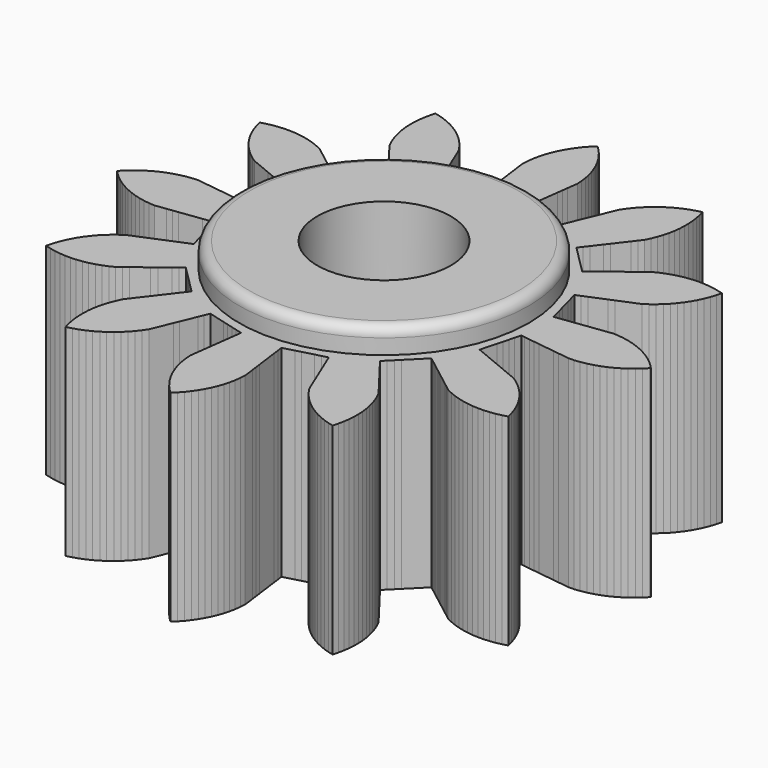
from build123d import *

# Parameters (mm, degrees)
F0_R     = 2.65
F1_DEPTH = 8
F2_R     = 5.75
F2_R_2   = 2.65
F3_DEPTH = 1
F4_R     = 0.4


with BuildPart() as f1:
    # F0 (on Top) → F1 (new body)
    with BuildSketch(Plane.XY):
        Polygon((4.749927, -0.826941), (4.756727, -0.801564), (4.900677, -0.820515), (5.116603, -0.848942), (5.332528, -0.877369), (5.548453, -0.905797), (5.764378, -0.934224), (5.980303, -0.962651), (6.196228, -0.991078), (6.412154, -1.019505), (6.628079, -1.047932), (6.844004, -1.076359), (7.069262, -1.074654), (7.292896, -1.047591), (7.528723, -1.005565), (7.746288, -0.94717), (7.952175, -0.879841), (8.160165, -0.793328), (8.355403, -0.699494), (8.550202, -0.586366), (8.731396, -0.467658), (8.909615, -0.329883), (9.073615, -0.188366), (9.232157, -0.028339), (9.260233, 0), (9.101691, 0.160028), (8.941176, 0.305484), (8.762956, 0.44326), (8.584698, 0.566332), (8.389899, 0.67946), (8.196997, 0.778007), (7.989007, 0.864521), (7.784816, 0.93683), (7.567251, 0.995224), (7.35532, 1.040037), (7.131963, 1.069297), (6.915979, 1.085835), (6.700054, 1.057408), (6.484129, 1.028981), (6.268203, 1.000554), (6.052278, 0.972126), (5.836353, 0.943699), (5.620428, 0.915272), (5.404503, 0.886845), (5.188578, 0.858418), (4.972652, 0.829991), (4.756727, 0.801564), (4.698424, 1.019153), (4.640121, 1.236742), (4.581819, 1.454332), (4.523516, 1.671921), (4.465213, 1.88951), (4.40691, 2.1071), (4.348607, 2.324689), (4.341807, 2.350066), (4.543017, 2.43341), (4.744228, 2.516754), (4.945438, 2.600098), (5.146648, 2.683442), (5.347858, 2.766786), (5.549069, 2.85013), (5.750279, 2.933474), (5.951489, 3.016818), (6.152699, 3.100162), (6.353909, 3.183506), (6.539692, 3.3109), (6.711491, 3.442839), (6.878896, 3.59357), (7.031841, 3.746967), (7.177958, 3.918414), (7.30939, 4.090602), (7.431678, 4.279784), (7.539311, 4.467768), (7.635643, 4.671396), (7.717606, 4.871908), (7.786308, 5.086441), (7.841175, 5.295994), (7.62386, 5.355311), (7.412122, 5.401023), (7.188891, 5.43123), (6.972979, 5.448684), (6.796204, 5.451467), (6.571223, 5.440154), (6.355779, 5.417649), (6.134243, 5.376832), (5.923632, 5.326175), (5.709393, 5.256563), (5.507279, 5.178635), (5.304062, 5.081439), (5.121035, 4.950117), (4.941762, 4.813715), (4.749725, 4.666484), (4.576942, 4.533903), (4.404159, 4.401322), (4.231376, 4.26874), (4.058593, 4.136159), (3.88581, 4.003578), (3.713026, 3.870997), (3.540243, 3.738416), (3.380957, 3.897702), (3.221671, 4.056989), (3.062384, 4.216275), (2.903098, 4.375561), (2.743811, 4.534848), (2.584525, 4.694134), (2.425238, 4.853421), (2.406661, 4.871998), (2.539242, 5.044781), (2.671823, 5.217565), (2.804404, 5.390348), (2.936985, 5.563131), (3.069567, 5.735914), (3.202148, 5.908697), (3.334729, 6.08148), (3.46731, 6.254263), (3.599891, 6.427047), (3.732472, 6.59983), (3.829668, 6.803047), (3.912481, 7.003209), (3.982092, 7.217449), (4.037848, 7.426767), (4.078666, 7.648303), (4.106395, 7.863138), (4.117708, 8.088118), (4.116929, 8.304734), (4.098542, 8.529247), (4.069268, 8.743877), (4.021499, 8.964019), (3.964239, 9.17293), (3.74638, 9.115643), (3.540153, 9.049361), (3.331726, 8.963906), (3.136013, 8.871066), (2.940642, 8.75893), (2.758847, 8.641145), (2.579929, 8.504277), (2.415212, 8.363596), (2.255859, 8.204377), (2.111084, 8.043246), (1.974066, 7.864444), (1.851751, 7.685664), (1.768407, 7.484454), (1.685063, 7.283244), (1.601719, 7.082034), (1.518375, 6.880824), (1.435031, 6.679613), (1.351687, 6.478403), (1.268343, 6.277193), (1.184999, 6.075983), (1.101655, 5.874772), (1.018311, 5.673562), (0.800722, 5.731865), (0.583133, 5.790168), (0.365544, 5.848471), (0.147954, 5.906774), (-0.069635, 5.965077), (-0.287224, 6.023379), (-0.504814, 6.081682), (-0.530191, 6.088482), (-0.501764, 6.304407), (-0.473337, 6.520333), (-0.44491, 6.736258), (-0.416483, 6.952183), (-0.388056, 7.168108), (-0.359629, 7.384033), (-0.331201, 7.599958), (-0.302774, 7.815884), (-0.274347, 8.031809), (-0.24592, 8.247734), (-0.263355, 8.472323), (-0.291718, 8.687075), (-0.338553, 8.907418), (-0.394925, 9.116571), (-0.470345, 9.328835), (-0.553748, 9.528752), (-0.656441, 9.729248), (-0.765423, 9.916453), (-0.893604, 10.101693), (-1.026271, 10.272931), (-1.177711, 10.439695), (-1.331755, 10.591988), (-1.491783, 10.433446), (-1.637239, 10.272931), (-1.775015, 10.094711), (-1.898087, 9.916453), (-2.011215, 9.721654), (-2.109762, 9.528752), (-2.196276, 9.320762), (-2.268585, 9.116571), (-2.326979, 8.899006), (-2.371792, 8.687075), (-2.401052, 8.463718), (-2.41759, 8.247734), (-2.389163, 8.031809), (-2.360736, 7.815884), (-2.332309, 7.599958), (-2.303881, 7.384033), (-2.275454, 7.168108), (-2.247027, 6.952183), (-2.2186, 6.736258), (-2.190173, 6.520333), (-2.161746, 6.304407), (-2.133319, 6.088482), (-2.350908, 6.030179), (-2.568497, 5.971876), (-2.786087, 5.913574), (-3.003676, 5.855271), (-3.221265, 5.796968), (-3.438855, 5.738665), (-3.656444, 5.680362), (-3.681821, 5.673562), (-3.765165, 5.874772), (-3.848509, 6.075983), (-3.931853, 6.277193), (-4.015197, 6.478403), (-4.098541, 6.679613), (-4.181885, 6.880824), (-4.265229, 7.082034), (-4.348573, 7.283244), (-4.431917, 7.484454), (-4.515261, 7.685664), (-4.642655, 7.871447), (-4.774594, 8.043246), (-4.925325, 8.210651), (-5.078722, 8.363596), (-5.250169, 8.509713), (-5.422357, 8.641145), (-5.611539, 8.763433), (-5.799523, 8.871066), (-6.003151, 8.967398), (-6.203663, 9.049361), (-6.418196, 9.118063), (-6.627749, 9.17293), (-6.687066, 8.955615), (-6.732778, 8.743877), (-6.762985, 8.520646), (-6.780439, 8.304734), (-6.781012, 8.079469), (-6.769905, 7.863138), (-6.740833, 7.639757), (-6.701358, 7.426767), (-6.643147, 7.209153), (-6.575991, 7.003209), (-6.489652, 6.795147), (-6.395982, 6.59983), (-6.263401, 6.427047), (-6.13082, 6.254263), (-5.998239, 6.08148), (-5.865658, 5.908697), (-5.733077, 5.735914), (-5.600495, 5.563131), (-5.467914, 5.390348), (-5.335333, 5.217565), (-5.202752, 5.044781), (-5.070171, 4.871998), (-5.229457, 4.712712), (-5.388744, 4.553426), (-5.54803, 4.394139), (-5.707316, 4.234853), (-5.866603, 4.075566), (-6.025889, 3.91628), (-6.185176, 3.756993), (-6.203753, 3.738416), (-6.376536, 3.870997), (-6.54932, 4.003578), (-6.722103, 4.136159), (-6.894886, 4.26874), (-7.067669, 4.401322), (-7.240452, 4.533903), (-7.413235, 4.666484), (-7.586018, 4.799065), (-7.758802, 4.931646), (-7.931585, 5.064227), (-8.134802, 5.161423), (-8.334964, 5.244236), (-8.549204, 5.313847), (-8.758522, 5.369603), (-8.980058, 5.410421), (-9.194893, 5.43815), (-9.419873, 5.449463), (-9.459714, 5.451467), (-9.684885, 5.44495), (-9.90076, 5.42704), (-10.123116, 5.390953), (-10.334757, 5.344795), (-10.504685, 5.295994), (-10.447398, 5.078135), (-10.381116, 4.871908), (-10.295661, 4.663481), (-10.202821, 4.467768), (-10.090685, 4.272397), (-9.9729, 4.090602), (-9.836032, 3.911684), (-9.695351, 3.746967), (-9.536132, 3.587614), (-9.375001, 3.442839), (-9.196199, 3.305821), (-9.017419, 3.183506), (-8.816209, 3.100162), (-8.614999, 3.016818), (-8.413789, 2.933474), (-8.212579, 2.85013), (-8.011368, 2.766786), (-7.810158, 2.683442), (-7.608948, 2.600098), (-7.407738, 2.516754), (-7.206527, 2.43341), (-7.005317, 2.350066), (-7.06362, 2.132477), (-7.121923, 1.914888), (-7.180226, 1.697299), (-7.238529, 1.479709), (-7.296832, 1.26212), (-7.355134, 1.044531), (-7.413437, 0.826941), (-7.420237, 0.801564), (-7.636162, 0.829991), (-7.852088, 0.858418), (-8.068013, 0.886845), (-8.283938, 0.915272), (-8.499863, 0.943699), (-8.715788, 0.972126), (-8.931713, 1.000554), (-9.147639, 1.028981), (-9.363564, 1.057408), (-9.579489, 1.085835), (-9.804078, 1.0684), (-10.01883, 1.040037), (-10.239173, 0.993202), (-10.448326, 0.93683), (-10.66059, 0.86141), (-10.860507, 0.778007), (-11.061003, 0.675314), (-11.248208, 0.566332), (-11.433448, 0.438151), (-11.604686, 0.305484), (-11.77145, 0.154044), (-11.923743, 0), (-11.765201, -0.160028), (-11.604686, -0.305484), (-11.426466, -0.44326), (-11.248208, -0.566332), (-11.053409, -0.67946), (-10.860507, -0.778007), (-10.652517, -0.864521), (-10.448326, -0.93683), (-10.230761, -0.995224), (-10.01883, -1.040037), (-9.795473, -1.069297), (-9.579489, -1.085835), (-9.363564, -1.057408), (-9.147639, -1.028981), (-8.931713, -1.000554), (-8.715788, -0.972126), (-8.499863, -0.943699), (-8.283938, -0.915272), (-8.068013, -0.886845), (-7.852088, -0.858418), (-7.636162, -0.829991), (-7.420237, -0.801564), (-7.361934, -1.019153), (-7.303631, -1.236742), (-7.245329, -1.454332), (-7.187026, -1.671921), (-7.128723, -1.88951), (-7.07042, -2.1071), (-7.012117, -2.324689), (-7.005317, -2.350066), (-7.206527, -2.43341), (-7.407738, -2.516754), (-7.608948, -2.600098), (-7.810158, -2.683442), (-8.011368, -2.766786), (-8.212579, -2.85013), (-8.413789, -2.933474), (-8.614999, -3.016818), (-8.816209, -3.100162), (-9.017419, -3.183506), (-9.203202, -3.3109), (-9.375001, -3.442839), (-9.542406, -3.59357), (-9.695351, -3.746967), (-9.841468, -3.918414), (-9.9729, -4.090602), (-10.095188, -4.279784), (-10.202821, -4.467768), (-10.299153, -4.671396), (-10.381116, -4.871908), (-10.449818, -5.086441), (-10.504685, -5.295994), (-10.28737, -5.355311), (-10.075632, -5.401023), (-9.852401, -5.43123), (-9.636489, -5.448684), (-9.411224, -5.449257), (-9.194893, -5.43815), (-8.971512, -5.409078), (-8.758522, -5.369603), (-8.540908, -5.311392), (-8.334964, -5.244236), (-8.126902, -5.157897), (-7.931585, -5.064227), (-7.758802, -4.931646), (-7.586018, -4.799065), (-7.413235, -4.666484), (-7.240452, -4.533903), (-7.067669, -4.401322), (-6.894886, -4.26874), (-6.722103, -4.136159), (-6.54932, -4.003578), (-6.376536, -3.870997), (-6.203753, -3.738416), (-6.044467, -3.897702), (-5.885181, -4.056989), (-5.725894, -4.216275), (-5.566608, -4.375561), (-5.407321, -4.534848), (-5.248035, -4.694134), (-5.088748, -4.853421), (-5.070171, -4.871998), (-5.202752, -5.044781), (-5.335333, -5.217565), (-5.467914, -5.390348), (-5.600495, -5.563131), (-5.733077, -5.735914), (-5.865658, -5.908697), (-5.998239, -6.08148), (-6.13082, -6.254263), (-6.263401, -6.427047), (-6.395982, -6.59983), (-6.493178, -6.803047), (-6.575991, -7.003209), (-6.645602, -7.217449), (-6.701358, -7.426767), (-6.742176, -7.648303), (-6.769905, -7.863138), (-6.781218, -8.088118), (-6.780439, -8.304734), (-6.762052, -8.529247), (-6.732778, -8.743877), (-6.685009, -8.964019), (-6.627749, -9.17293), (-6.40989, -9.115643), (-6.203663, -9.049361), (-5.995236, -8.963906), (-5.799523, -8.871066), (-5.604152, -8.75893), (-5.422357, -8.641145), (-5.243439, -8.504277), (-5.078722, -8.363596), (-4.919369, -8.204377), (-4.774594, -8.043246), (-4.637576, -7.864444), (-4.515261, -7.685664), (-4.431917, -7.484454), (-4.348573, -7.283244), (-4.265229, -7.082034), (-4.181885, -6.880824), (-4.098541, -6.679613), (-4.015197, -6.478403), (-3.931853, -6.277193), (-3.848509, -6.075983), (-3.765165, -5.874772), (-3.681821, -5.673562), (-3.464232, -5.731865), (-3.246643, -5.790168), (-3.029054, -5.848471), (-2.811464, -5.906774), (-2.593875, -5.965077), (-2.376286, -6.023379), (-2.158696, -6.081682), (-2.133319, -6.088482), (-2.161746, -6.304407), (-2.190173, -6.520333), (-2.2186, -6.736258), (-2.247027, -6.952183), (-2.275454, -7.168108), (-2.303881, -7.384033), (-2.332309, -7.599958), (-2.360736, -7.815884), (-2.389163, -8.031809), (-2.41759, -8.247734), (-2.400155, -8.472323), (-2.371792, -8.687075), (-2.324957, -8.907418), (-2.268585, -9.116571), (-2.193165, -9.328835), (-2.109762, -9.528752), (-2.007069, -9.729248), (-1.898087, -9.916453), (-1.769906, -10.101693), (-1.637239, -10.272931), (-1.485799, -10.439695), (-1.331755, -10.591988), (-1.171727, -10.433446), (-1.026271, -10.272931), (-0.888495, -10.094711), (-0.765423, -9.916453), (-0.652295, -9.721654), (-0.553748, -9.528752), (-0.467234, -9.320762), (-0.394925, -9.116571), (-0.336531, -8.899006), (-0.291718, -8.687075), (-0.262458, -8.463718), (-0.24592, -8.247734), (-0.274347, -8.031809), (-0.302774, -7.815884), (-0.331201, -7.599958), (-0.359629, -7.384033), (-0.388056, -7.168108), (-0.416483, -6.952183), (-0.44491, -6.736258), (-0.473337, -6.520333), (-0.501764, -6.304407), (-0.530191, -6.088482), (-0.312602, -6.030179), (-0.095013, -5.971876), (0.122577, -5.913574), (0.340166, -5.855271), (0.557755, -5.796968), (0.775345, -5.738665), (0.992934, -5.680362), (1.018311, -5.673562), (1.101655, -5.874772), (1.184999, -6.075983), (1.268343, -6.277193), (1.351687, -6.478403), (1.435031, -6.679613), (1.518375, -6.880824), (1.601719, -7.082034), (1.685063, -7.283244), (1.768407, -7.484454), (1.851751, -7.685664), (1.979145, -7.871447), (2.111084, -8.043246), (2.261815, -8.210651), (2.415212, -8.363596), (2.586659, -8.509713), (2.758847, -8.641145), (2.948029, -8.763433), (3.136013, -8.871066), (3.339641, -8.967398), (3.540153, -9.049361), (3.754686, -9.118063), (3.964239, -9.17293), (4.023556, -8.955615), (4.069268, -8.743877), (4.099475, -8.520646), (4.116929, -8.304734), (4.117502, -8.079469), (4.106395, -7.863138), (4.077323, -7.639757), (4.037848, -7.426767), (3.979637, -7.209153), (3.912481, -7.003209), (3.826142, -6.795147), (3.732472, -6.59983), (3.599891, -6.427047), (3.46731, -6.254263), (3.334729, -6.08148), (3.202148, -5.908697), (3.069567, -5.735914), (2.936985, -5.563131), (2.804404, -5.390348), (2.671823, -5.217565), (2.539242, -5.044781), (2.406661, -4.871998), (2.565947, -4.712712), (2.725234, -4.553426), (2.88452, -4.394139), (3.043806, -4.234853), (3.203093, -4.075566), (3.362379, -3.91628), (3.521666, -3.756993), (3.540243, -3.738416), (3.713026, -3.870997), (3.88581, -4.003578), (4.058593, -4.136159), (4.231376, -4.26874), (4.404159, -4.401322), (4.576942, -4.533903), (4.749725, -4.666484), (4.922508, -4.799065), (5.095292, -4.931646), (5.268075, -5.064227), (5.471292, -5.161423), (5.671454, -5.244236), (5.885694, -5.313847), (6.095012, -5.369603), (6.316548, -5.410421), (6.531383, -5.43815), (6.756363, -5.449463), (6.972979, -5.448684), (7.197492, -5.430297), (7.412122, -5.401023), (7.632264, -5.353254), (7.841175, -5.295994), (7.783888, -5.078135), (7.717606, -4.871908), (7.632151, -4.663481), (7.539311, -4.467768), (7.427175, -4.272397), (7.30939, -4.090602), (7.172522, -3.911684), (7.031841, -3.746967), (6.872622, -3.587614), (6.711491, -3.442839), (6.532689, -3.305821), (6.353909, -3.183506), (6.152699, -3.100162), (5.951489, -3.016818), (5.750279, -2.933474), (5.549069, -2.85013), (5.347858, -2.766786), (5.146648, -2.683442), (4.945438, -2.600098), (4.744228, -2.516754), (4.543017, -2.43341), (4.341807, -2.350066), (4.40011, -2.132477), (4.458413, -1.914888), (4.516716, -1.697299), (4.575019, -1.479709), (4.633322, -1.26212), (4.691624, -1.044531), align=None)
        with Locations((-1.331755, 0)):
            Circle(F0_R, mode=Mode.SUBTRACT)
    extrude(amount=F1_DEPTH)

    # F2 (on face) → F3 (join)
    with BuildSketch(Plane.XY.offset(8)):
        with Locations((-1.331755, 0)):
            Circle(F2_R)
        with Locations((-1.331755, 0)):
            Circle(F2_R_2, mode=Mode.SUBTRACT)
    extrude(amount=F3_DEPTH)

    # F4
    f4_edges = [f1.edges().sort_by_distance(p)[0] for p in [
        (-7.081755, 0, 9),
    ]]
    fillet(f4_edges, radius=F4_R)


solid = f1.part
